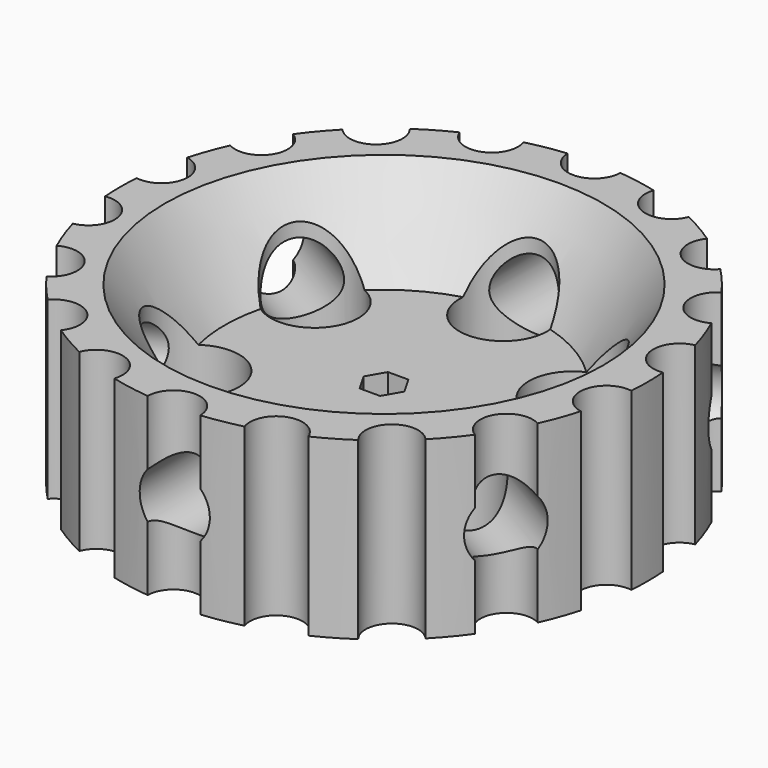
from build123d import *

# Parameters (mm, degrees)
SKETCH004_R           = 4
PAD_DEPTH             = 15
ARRAY_COUNT           = 6
SKETCH001_R           = 3
POCKET_DEPTH          = 30
POLARPATTERN_COUNT    = 18
POCKET001_DEPTH       = 15
SKETCH003_R           = 5
POCKET002_DEPTH       = 20
POLARPATTERN001_COUNT = 6


with BuildPart() as array:
    # Sketch004 → Pad (new body)
    with BuildSketch(Plane(origin=(0, 33, 20), x_dir=(-1, 0, 0), z_dir=(0, 1, 0))):
        with Locations((0, -10)):
            Circle(SKETCH004_R)
    extrude(amount=-PAD_DEPTH)

    # Array: Array ×6 about axis
    array_axis = Axis((0, 0, 0), (0, 0, 1))


with BuildPart() as array_1:
    add(array.part)
    for i in range(1, ARRAY_COUNT):
        add(array.part.rotate(array_axis, i * 360 / ARRAY_COUNT))


with BuildPart() as cut:
    # Sketch → Revolution (revolve)
    with BuildSketch(Plane.XZ):
        Polygon((0, 0), (30.099026, 0), (30.099026, 20), (25, 20), (18.177595, 10), (0, 10), align=None)
    revolve(axis=Axis((0, 0, 0), (0, 0, 1)))

    # Sketch001 → Pocket (cut)
    with BuildSketch(Plane(origin=(0, 0, 0), x_dir=(1, 0, 0), z_dir=(0, 0, -1))):
        with Locations((0, -30)):
            Circle(SKETCH001_R)
    pocket = extrude(amount=-POCKET_DEPTH, mode=Mode.SUBTRACT)

    # PolarPattern: Pocket ×18 about axis
    polarpattern_axis = Axis((0, 0, 0), (0, 0, -1))
    for i in range(1, POLARPATTERN_COUNT):
        add(pocket.rotate(polarpattern_axis, i * 360 / POLARPATTERN_COUNT), mode=Mode.SUBTRACT)

    # Sketch002 → Pocket001 (cut)
    with BuildSketch(Plane(origin=(0, 0, 0), x_dir=(1, 0, 0), z_dir=(0, 0, -1))):
        Polygon((2.333708, 0), (1.166854, 2.02105), (-1.166854, 2.02105), (-2.333708, 0), (-1.166854, -2.02105), (1.166854, -2.02105), align=None)
    extrude(amount=-POCKET001_DEPTH, mode=Mode.SUBTRACT)

    # Sketch003 → Pocket002 (cut)
    with BuildSketch(Plane(origin=(0, 0, 0), x_dir=(1, 0, 0), z_dir=(0, 0, -1))):
        with Locations((0, -17)):
            Circle(SKETCH003_R)
    pocket002 = extrude(amount=-POCKET002_DEPTH, mode=Mode.SUBTRACT)

    # PolarPattern001: Pocket002 ×6 about axis
    polarpattern001_axis = Axis((0, 0, 0), (0, 0, -1))
    for i in range(1, POLARPATTERN001_COUNT):
        add(pocket002.rotate(polarpattern001_axis, i * 360 / POLARPATTERN001_COUNT), mode=Mode.SUBTRACT)

    # Cut: cut Array
    add(array_1.part, mode=Mode.SUBTRACT)


solid = cut.part
